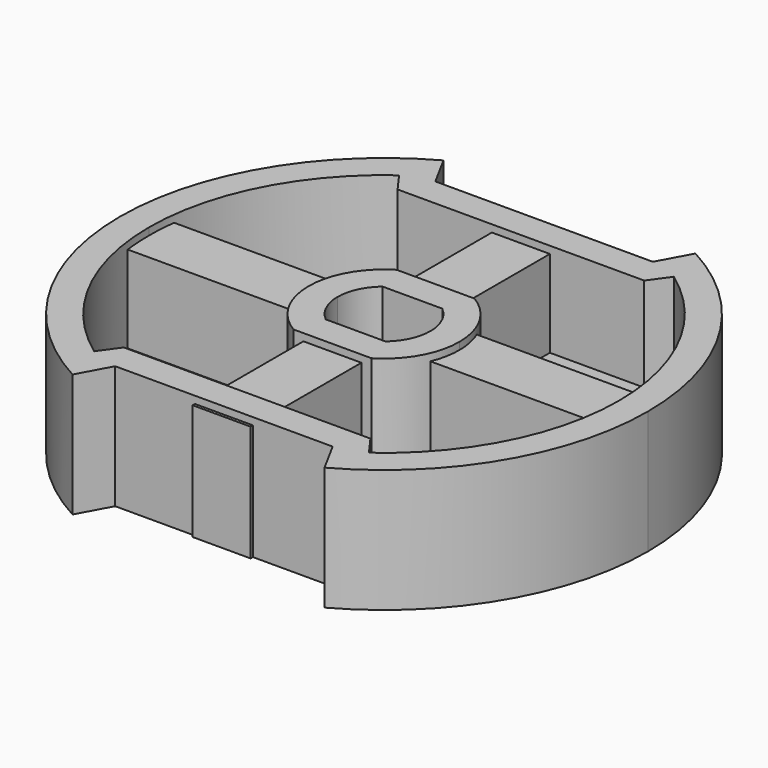
from build123d import *

# Parameters (mm, degrees)
PAD_DEPTH                = 8.5
PAD001_DEPTH             = 2
PAD002_DEPTH             = 8.5
SKETCH003_W              = 2
SKETCH003_H              = 10
SKETCH003_W_2            = 14
SKETCH003_H_2            = 2
PAD003_DEPTH             = 8
SKETCH003_MIRRORED_2_W   = 2
SKETCH003_MIRRORED_2_H   = 10
SKETCH003_MIRRORED_2_W_2 = 14
SKETCH003_MIRRORED_2_H_2 = 2
PAD003_MIRRORED_2_DEPTH  = 8
PAD002_MIRRORED_2_DEPTH  = 8.5
PAD001_MIRRORED_2_DEPTH  = 2
PAD_MIRRORED_2_DEPTH     = 8.5


with BuildPart() as part:
    # Sketch → Pad (new body)
    with BuildSketch(Plane.XY):
        with BuildLine():
            ThreePointArc((18.2, 0), (15.643074, 9.302378), (8.690742, 15.990966))
            Line((8.690742, 15.990966), (7.5, 13.8))
            Line((0, 13.8), (7.5, 13.8))
            Line((0, 11.8), (0, 13.8))
            Line((8.504147, 11.8), (0, 11.8))
            Line((9.471711, 13.142552), (8.504147, 11.8))
            ThreePointArc((16.2, 0), (14.420155, 7.382353), (9.471711, 13.142552))
            Line((16.2, 0), (18.2, 0))
        make_face()
    pad = extrude(amount=PAD_DEPTH)

    # Sketch001 → Pad001 (join)
    with BuildSketch(Plane.XY):
        with BuildLine():
            ThreePointArc((18, 0), (15.499386, 9.152543), (8.692328, 15.762088))
            Line((8.692328, 15.762088), (7.5, 13.6))
            Line((0, 13.6), (7.5, 13.6))
            Line((0, 4), (0, 13.6))
            ThreePointArc((4, 0), (2.828427, 2.828427), (0, 4))
            Line((4, 0), (18, 0))
        make_face()
    pad001 = extrude(amount=PAD001_DEPTH)

    # Sketch002 → Pad002 (join)
    with BuildSketch(Plane.XY):
        with BuildLine():
            ThreePointArc((3.2, 0), (2.900626, 1.351432), (2.058519, 2.45))
            Line((2.058519, 2.45), (0, 2.45))
            Line((0, 2.45), (0, 4.45))
            Line((0, 4.45), (2.69026, 4.45))
            ThreePointArc((5.2, 0), (4.529313, 2.554471), (2.69026, 4.45))
            Line((3.2, 0), (5.2, 0))
        make_face()
    pad002 = extrude(amount=PAD002_DEPTH)

    # Sketch003 → Pad003 (join)
    with BuildSketch(Plane.XY):
        with Locations((1, 9)):
            Rectangle(SKETCH003_W, SKETCH003_H)
        with Locations((11, 1)):
            Rectangle(SKETCH003_W_2, SKETCH003_H_2)
    pad003 = extrude(amount=PAD003_DEPTH)

    # Sketch003 Mirrored 2 → Pad003 Mirrored 2 (add)
    with BuildSketch(Plane(origin=(0, 0, 0), x_dir=(-1, 0, 0), z_dir=(0, 0, -1))):
        with Locations((1, 9)):
            Rectangle(SKETCH003_MIRRORED_2_W, SKETCH003_MIRRORED_2_H)
        with Locations((11, 1)):
            Rectangle(SKETCH003_MIRRORED_2_W_2, SKETCH003_MIRRORED_2_H_2)
    pad003_mirrored_2 = extrude(amount=-PAD003_MIRRORED_2_DEPTH)

    # Sketch002 Mirrored 2 → Pad002 Mirrored 2 (add)
    with BuildSketch(Plane(origin=(0, 0, 0), x_dir=(-1, 0, 0), z_dir=(0, 0, -1))):
        with BuildLine():
            ThreePointArc((3.2, 0), (2.900626, 1.351432), (2.058519, 2.45))
            Line((2.058519, 2.45), (0, 2.45))
            Line((0, 2.45), (0, 4.45))
            Line((0, 4.45), (2.69026, 4.45))
            ThreePointArc((5.2, 0), (4.529313, 2.554471), (2.69026, 4.45))
            Line((3.2, 0), (5.2, 0))
        make_face()
    pad002_mirrored_2 = extrude(amount=-PAD002_MIRRORED_2_DEPTH)

    # Sketch001 Mirrored 2 → Pad001 Mirrored 2 (add)
    with BuildSketch(Plane(origin=(0, 0, 0), x_dir=(-1, 0, 0), z_dir=(0, 0, -1))):
        with BuildLine():
            ThreePointArc((18, 0), (15.499386, 9.152543), (8.692328, 15.762088))
            Line((8.692328, 15.762088), (7.5, 13.6))
            Line((0, 13.6), (7.5, 13.6))
            Line((0, 4), (0, 13.6))
            ThreePointArc((4, 0), (2.828427, 2.828427), (0, 4))
            Line((4, 0), (18, 0))
        make_face()
    pad001_mirrored_2 = extrude(amount=-PAD001_MIRRORED_2_DEPTH)

    # Sketch Mirrored 2 → Pad Mirrored 2 (add)
    with BuildSketch(Plane(origin=(0, 0, 0), x_dir=(-1, 0, 0), z_dir=(0, 0, -1))):
        with BuildLine():
            ThreePointArc((18.2, 0), (15.643074, 9.302378), (8.690742, 15.990966))
            Line((8.690742, 15.990966), (7.5, 13.8))
            Line((0, 13.8), (7.5, 13.8))
            Line((0, 11.8), (0, 13.8))
            Line((8.504147, 11.8), (0, 11.8))
            Line((9.471711, 13.142552), (8.504147, 11.8))
            ThreePointArc((16.2, 0), (14.420155, 7.382353), (9.471711, 13.142552))
            Line((16.2, 0), (18.2, 0))
        make_face()
    pad_mirrored_2 = extrude(amount=-PAD_MIRRORED_2_DEPTH)

    # Mirrored001: Pad003, Pad002, Pad001, Pad, Pad003 Mirrored 2, Pad002 Mirrored 2, Pad001 Mirrored 2, Pad Mirrored 2 across Sketch003 H_Axis
    add(pad003.mirror(Plane.ZX))
    add(pad002.mirror(Plane.ZX))
    add(pad001.mirror(Plane.ZX))
    add(pad.mirror(Plane.ZX))
    add(pad003_mirrored_2.mirror(Plane.ZX))
    add(pad002_mirrored_2.mirror(Plane.ZX))
    add(pad001_mirrored_2.mirror(Plane.ZX))
    add(pad_mirrored_2.mirror(Plane.ZX))


solid = part.part
